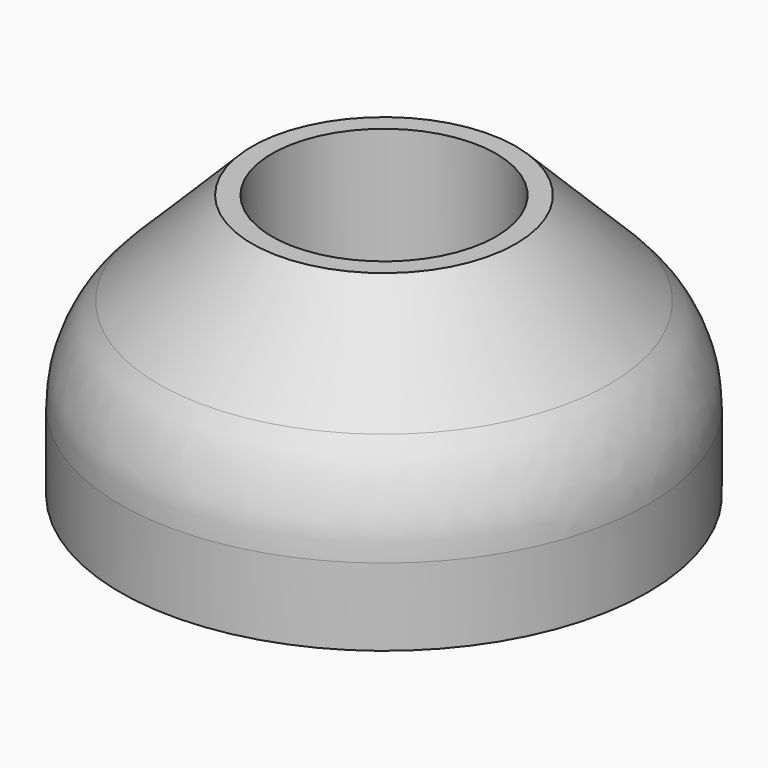
from build123d import *

# Parameters (mm, degrees)
F0_R     = 10
F1_DEPTH = 10
F2_R     = 4.25
F3_DEPTH = 10.001
F4_SIZE  = 5
F5_R     = 5


with BuildPart() as f1:
    # F0 (on Top) → F1 (new body)
    with BuildSketch(Plane.XY):
        Circle(F0_R)
    extrude(amount=F1_DEPTH)

    # F2 (on face) → F3 (cut, through all)
    with BuildSketch(Plane.XY.offset(10)):
        Circle(F2_R)
    extrude(amount=-F3_DEPTH, mode=Mode.SUBTRACT)

    # F4
    f4_edges = [f1.edges().sort_by_distance(p)[0] for p in [
        (-10, 0, 10),
    ]]
    chamfer(f4_edges, length=F4_SIZE)

    # F5
    f5_edges = [f1.edges().sort_by_distance(p)[0] for p in [
        (-10, 0, 5),
    ]]
    fillet(f5_edges, radius=F5_R)


solid = f1.part
